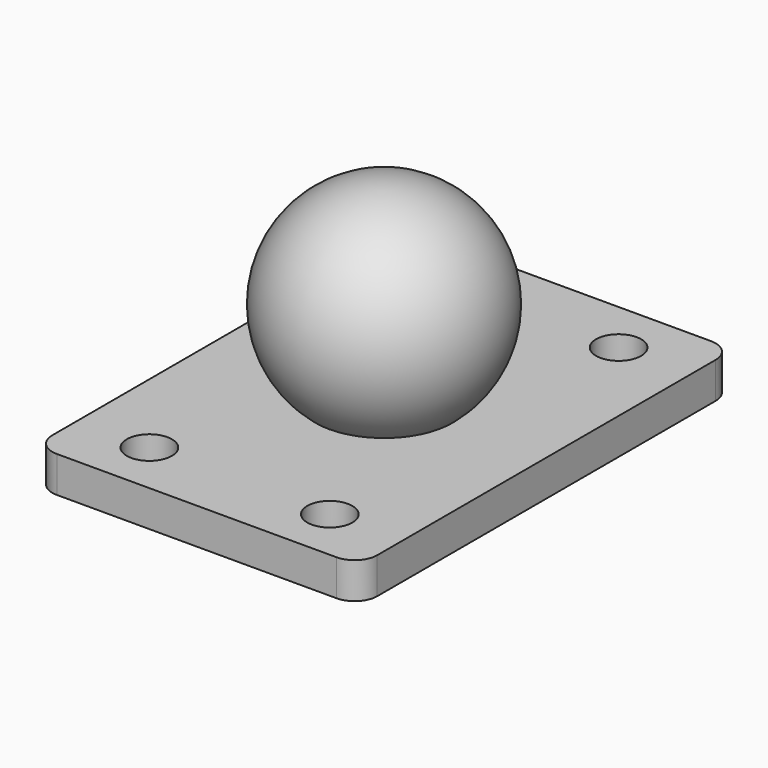
from build123d import *

# Parameters (mm, degrees)
F0_R     = 2
F1_DEPTH = 3.2


with BuildPart() as f1:
    # F0 (on Top) → F1 (new body)
    with BuildSketch(Plane.XY):
        with BuildLine():
            ThreePointArc((14.4, 18.75), (13.814214, 20.164214), (12.4, 20.75))
            Line((12.4, 20.75), (-12.4, 20.75))
            ThreePointArc((-12.4, 20.75), (-13.814214, 20.164214), (-14.4, 18.75))
            Line((-14.4, 18.75), (-14.4, -18.75))
            ThreePointArc((-14.4, -18.75), (-13.814214, -20.164214), (-12.4, -20.75))
            Line((-12.4, -20.75), (12.4, -20.75))
            ThreePointArc((12.4, -20.75), (13.814214, -20.164214), (14.4, -18.75))
            Line((14.4, -18.75), (14.4, 18.75))
        make_face()
        with Locations((-8, -16)):
            Circle(F0_R, mode=Mode.SUBTRACT)
        with Locations((8, -16)):
            Circle(F0_R, mode=Mode.SUBTRACT)
        with Locations((-8, 16)):
            Circle(F0_R, mode=Mode.SUBTRACT)
        with Locations((8, 16)):
            Circle(F0_R, mode=Mode.SUBTRACT)
    extrude(amount=F1_DEPTH)

    # F2 (on Right) → F3 (revolve)
    with BuildSketch(Plane.YZ):
        with BuildLine():
            Line((0, 1), (0, 20))
            ThreePointArc((0, 20), (-9.5, 10.5), (0, 1))
        make_face()
    revolve(axis=Axis((0, 0, 34.123861), (0, 0, 1)))


solid = f1.part
